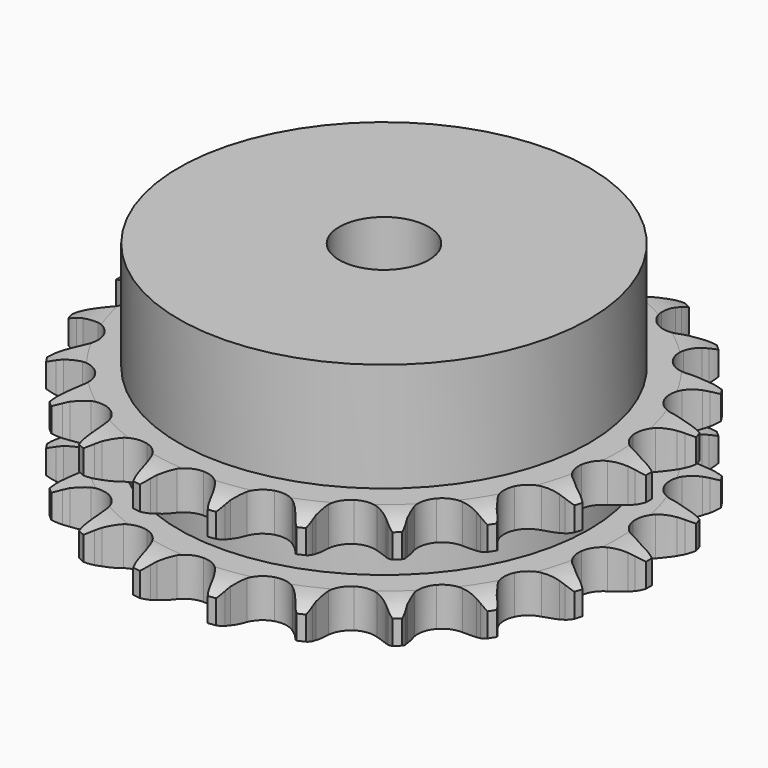
from build123d import *

# Parameters (mm, degrees)
PAD_DEPTH         = 15.4
SKETCH001_R       = 27.5
PAD001_DEPTH      = 30
SKETCH002_R       = 6
POCKET_DEPTH      = 0.001
POCKET_DEPTH_BACK = 30.001


with BuildPart() as part:
    # Sprocket → Pad (new body)
    with BuildSketch(Plane.XY):
        with BuildLine():
            ThreePointArc((-5.166449, 35.933439), (-4.481835, 35.114865), (-3.978369, 34.173972))
            Line((-3.978369, 34.173972), (-3.671108, 33.423774))
            ThreePointArc((-3.671108, 33.423774), (-3.177847, 32.418519), (-2.553901, 31.488714))
            ThreePointArc((-2.553901, 31.488714), (-1.422393, 30.565729), (0, 30.235561))
            ThreePointArc((0, 30.235561), (1.422393, 30.565729), (2.553901, 31.488714))
            ThreePointArc((2.553901, 31.488714), (3.177847, 32.418519), (3.671108, 33.423774))
            Line((3.671108, 33.423774), (3.978369, 34.173972))
            ThreePointArc((3.978369, 34.173972), (4.481835, 35.114865), (5.166449, 35.933439))
            ThreePointArc((5.166449, 35.933439), (5.592711, 34.955145), (5.810703, 33.910522))
            Line((5.810703, 33.910522), (5.894163, 33.104147))
            ThreePointArc((5.894163, 33.104147), (6.08423, 32.000644), (6.420946, 30.932717))
            ThreePointArc((6.420946, 30.932717), (7.246585, 29.728337), (8.518342, 29.010808))
            ThreePointArc((8.518342, 29.010808), (9.976137, 28.926868), (11.321846, 29.493683))
            Line((11.321846, 29.493683), (12.938968, 31.035606))
            ThreePointArc((12.938968, 31.035606), (13.184325, 31.358404), (13.445138, 31.668849))
            ThreePointArc((13.445138, 31.668849), (14.19329, 32.429787), (15.080791, 33.022326))
            ThreePointArc((15.080791, 33.022326), (15.21417, 31.963567), (15.129027, 30.899843))
            Line((15.129027, 30.899843), (14.981924, 30.102619))
            ThreePointArc((14.981924, 30.102619), (14.853399, 28.990267), (14.875606, 27.870735))
            ThreePointArc((14.875606, 27.870735), (15.328488, 26.482531), (16.346578, 25.435772))
            ThreePointArc((16.346578, 25.435772), (17.721674, 24.944524), (19.172562, 25.109249))
            Line((19.172562, 25.109249), (21.158589, 26.133117))
            ThreePointArc((21.158589, 26.133117), (21.484951, 26.373715), (21.822661, 26.598105))
            ThreePointArc((21.822661, 26.598105), (22.754889, 27.117441), (23.773377, 27.43594))
            ThreePointArc((23.773377, 27.43594), (23.603066, 26.382492), (23.221687, 25.385843))
            Line((23.221687, 25.385843), (22.855938, 24.662355))
            ThreePointArc((22.855938, 24.662355), (22.419234, 23.631271), (22.125133, 22.550832))
            ThreePointArc((22.125133, 22.550832), (22.168568, 21.091269), (22.850512, 19.800082))
            ThreePointArc((22.850512, 19.800082), (24.031506, 18.941323), (25.470032, 18.690613))
            Line((25.470032, 18.690613), (27.664067, 19.113479))
            ThreePointArc((27.664067, 19.113479), (28.044993, 19.252384), (28.432242, 19.372541))
            ThreePointArc((28.432242, 19.372541), (29.473022, 19.608201), (30.539986, 19.626857))
            ThreePointArc((30.539986, 19.626857), (30.079783, 18.664063), (29.433064, 17.815233))
            Line((29.433064, 17.815233), (28.878301, 17.224095))
            ThreePointArc((28.878301, 17.224095), (28.168796, 16.357811), (27.582213, 15.403995))
            ThreePointArc((27.582213, 15.403995), (27.212682, 13.991317), (27.503233, 12.560306))
            ThreePointArc((27.503233, 12.560306), (28.394449, 11.403609), (29.704071, 10.757775))
            Line((29.704071, 10.757775), (31.928368, 10.54538))
            ThreePointArc((31.928368, 10.54538), (32.332998, 10.57134), (32.738412, 10.577529))
            ThreePointArc((32.738412, 10.577529), (33.803427, 10.510421), (34.832426, 10.227723))
            ThreePointArc((34.832426, 10.227723), (34.119615, 9.433583), (33.259949, 8.801338))
            Line((33.259949, 8.801338), (32.561115, 8.39044))
            ThreePointArc((32.561115, 8.39044), (31.63629, 7.759137), (30.804747, 7.009217))
            ThreePointArc((30.804747, 7.009217), (30.052187, 5.757872), (29.927806, 4.302969))
            ThreePointArc((29.927806, 4.302969), (30.457042, 2.942042), (31.531663, 1.953406))
            Line((31.531663, 1.953406), (33.606021, 1.122958))
            ThreePointArc((33.606021, 1.122958), (34.001575, 1.033868), (34.392311, 0.925588))
            ThreePointArc((34.392311, 0.925588), (35.395278, 0.56115), (36.302951, 0))
            ThreePointArc((36.302951, 0), (35.395278, -0.56115), (34.392311, -0.925588))
            Line((34.392311, -0.925588), (33.606021, -1.122958))
            ThreePointArc((33.606021, -1.122958), (32.5408, -1.468135), (31.531663, -1.953406))
            ThreePointArc((31.531663, -1.953406), (30.457042, -2.942042), (29.927806, -4.302969))
            ThreePointArc((29.927806, -4.302969), (30.052187, -5.757872), (30.804747, -7.009217))
            Line((30.804747, -7.009217), (32.561115, -8.39044))
            ThreePointArc((32.561115, -8.39044), (32.915546, -8.587361), (33.259949, -8.801338))
            ThreePointArc((33.259949, -8.801338), (34.119615, -9.433583), (34.832426, -10.227723))
            ThreePointArc((34.832426, -10.227723), (33.803427, -10.510421), (32.738412, -10.577529))
            Line((32.738412, -10.577529), (31.928368, -10.54538))
            ThreePointArc((31.928368, -10.54538), (30.809047, -10.576468), (29.704071, -10.757775))
            ThreePointArc((29.704071, -10.757775), (28.394449, -11.403609), (27.503233, -12.560306))
            ThreePointArc((27.503233, -12.560306), (27.212682, -13.991317), (27.582213, -15.403995))
            Line((27.582213, -15.403995), (28.878301, -17.224095))
            ThreePointArc((28.878301, -17.224095), (29.162896, -17.512894), (29.433064, -17.815233))
            ThreePointArc((29.433064, -17.815233), (30.079783, -18.664063), (30.539986, -19.626857))
            ThreePointArc((30.539986, -19.626857), (29.473022, -19.608201), (28.432242, -19.372541))
            Line((28.432242, -19.372541), (27.664067, -19.113479))
            ThreePointArc((27.664067, -19.113479), (26.581329, -18.827958), (25.470032, -18.690613))
            ThreePointArc((25.470032, -18.690613), (24.031506, -18.941323), (22.850512, -19.800082))
            ThreePointArc((22.850512, -19.800082), (22.168568, -21.091269), (22.125133, -22.550832))
            Line((22.125133, -22.550832), (22.855938, -24.662355))
            ThreePointArc((22.855938, -24.662355), (23.047641, -25.019636), (23.221687, -25.385843))
            ThreePointArc((23.221687, -25.385843), (23.603066, -26.382492), (23.773377, -27.43594))
            ThreePointArc((23.773377, -27.43594), (22.754889, -27.117441), (21.822661, -26.598105))
            Line((21.822661, -26.598105), (21.158589, -26.133117))
            ThreePointArc((21.158589, -26.133117), (20.200149, -25.554119), (19.172562, -25.109249))
            ThreePointArc((19.172562, -25.109249), (17.721674, -24.944524), (16.346578, -25.435772))
            ThreePointArc((16.346578, -25.435772), (15.328488, -26.482531), (14.875606, -27.870735))
            Line((14.875606, -27.870735), (14.981924, -30.102619))
            ThreePointArc((14.981924, -30.102619), (15.065204, -30.499436), (15.129027, -30.899843))
            ThreePointArc((15.129027, -30.899843), (15.21417, -31.963567), (15.080791, -33.022326))
            ThreePointArc((15.080791, -33.022326), (14.19329, -32.429787), (13.445138, -31.668849))
            Line((13.445138, -31.668849), (12.938968, -31.035606))
            ThreePointArc((12.938968, -31.035606), (12.182474, -30.210038), (11.321846, -29.493683))
            ThreePointArc((11.321846, -29.493683), (9.976137, -28.926868), (8.518342, -29.010808))
            ThreePointArc((8.518342, -29.010808), (7.246585, -29.728337), (6.420946, -30.932717))
            Line((6.420946, -30.932717), (5.894163, -33.104147))
            ThreePointArc((5.894163, -33.104147), (5.862273, -33.508353), (5.810703, -33.910522))
            ThreePointArc((5.810703, -33.910522), (5.592711, -34.955145), (5.166449, -35.933439))
            ThreePointArc((5.166449, -35.933439), (4.481835, -35.114865), (3.978369, -34.173972))
            Line((3.978369, -34.173972), (3.671108, -33.423774))
            ThreePointArc((3.671108, -33.423774), (3.177847, -32.418519), (2.553901, -31.488714))
            ThreePointArc((2.553901, -31.488714), (1.422393, -30.565729), (0, -30.235561))
            ThreePointArc((0, -30.235561), (-1.422393, -30.565729), (-2.553901, -31.488714))
            Line((-2.553901, -31.488714), (-3.671108, -33.423774))
            ThreePointArc((-3.671108, -33.423774), (-3.815584, -33.802622), (-3.978369, -34.173972))
            ThreePointArc((-3.978369, -34.173972), (-4.481835, -35.114865), (-5.166449, -35.933439))
            ThreePointArc((-5.166449, -35.933439), (-5.592711, -34.955145), (-5.810703, -33.910522))
            Line((-5.810703, -33.910522), (-5.894163, -33.104147))
            ThreePointArc((-5.894163, -33.104147), (-6.08423, -32.000644), (-6.420946, -30.932717))
            ThreePointArc((-6.420946, -30.932717), (-7.246585, -29.728337), (-8.518342, -29.010808))
            ThreePointArc((-8.518342, -29.010808), (-9.976137, -28.926868), (-11.321846, -29.493683))
            Line((-11.321846, -29.493683), (-12.938968, -31.035606))
            ThreePointArc((-12.938968, -31.035606), (-13.184325, -31.358404), (-13.445138, -31.668849))
            ThreePointArc((-13.445138, -31.668849), (-14.19329, -32.429787), (-15.080791, -33.022326))
            ThreePointArc((-15.080791, -33.022326), (-15.21417, -31.963567), (-15.129027, -30.899843))
            Line((-15.129027, -30.899843), (-14.981924, -30.102619))
            ThreePointArc((-14.981924, -30.102619), (-14.853399, -28.990267), (-14.875606, -27.870735))
            ThreePointArc((-14.875606, -27.870735), (-15.328488, -26.482531), (-16.346578, -25.435772))
            ThreePointArc((-16.346578, -25.435772), (-17.721674, -24.944524), (-19.172562, -25.109249))
            Line((-19.172562, -25.109249), (-21.158589, -26.133117))
            ThreePointArc((-21.158589, -26.133117), (-21.484951, -26.373715), (-21.822661, -26.598105))
            ThreePointArc((-21.822661, -26.598105), (-22.754889, -27.117441), (-23.773377, -27.43594))
            ThreePointArc((-23.773377, -27.43594), (-23.603066, -26.382492), (-23.221687, -25.385843))
            Line((-23.221687, -25.385843), (-22.855938, -24.662355))
            ThreePointArc((-22.855938, -24.662355), (-22.419234, -23.631271), (-22.125133, -22.550832))
            ThreePointArc((-22.125133, -22.550832), (-22.168568, -21.091269), (-22.850512, -19.800082))
            ThreePointArc((-22.850512, -19.800082), (-24.031506, -18.941323), (-25.470032, -18.690613))
            Line((-25.470032, -18.690613), (-27.664067, -19.113479))
            ThreePointArc((-27.664067, -19.113479), (-28.044993, -19.252384), (-28.432242, -19.372541))
            ThreePointArc((-28.432242, -19.372541), (-29.473022, -19.608201), (-30.539986, -19.626857))
            ThreePointArc((-30.539986, -19.626857), (-30.079783, -18.664063), (-29.433064, -17.815233))
            Line((-29.433064, -17.815233), (-28.878301, -17.224095))
            ThreePointArc((-28.878301, -17.224095), (-28.168796, -16.357811), (-27.582213, -15.403995))
            ThreePointArc((-27.582213, -15.403995), (-27.212682, -13.991317), (-27.503233, -12.560306))
            ThreePointArc((-27.503233, -12.560306), (-28.394449, -11.403609), (-29.704071, -10.757775))
            Line((-29.704071, -10.757775), (-31.928368, -10.54538))
            ThreePointArc((-31.928368, -10.54538), (-32.332998, -10.57134), (-32.738412, -10.577529))
            ThreePointArc((-32.738412, -10.577529), (-33.803427, -10.510421), (-34.832426, -10.227723))
            ThreePointArc((-34.832426, -10.227723), (-34.119615, -9.433583), (-33.259949, -8.801338))
            Line((-33.259949, -8.801338), (-32.561115, -8.39044))
            ThreePointArc((-32.561115, -8.39044), (-31.63629, -7.759137), (-30.804747, -7.009217))
            ThreePointArc((-30.804747, -7.009217), (-30.052187, -5.757872), (-29.927806, -4.302969))
            ThreePointArc((-29.927806, -4.302969), (-30.457042, -2.942042), (-31.531663, -1.953406))
            Line((-31.531663, -1.953406), (-33.606021, -1.122958))
            ThreePointArc((-33.606021, -1.122958), (-34.001575, -1.033868), (-34.392311, -0.925588))
            ThreePointArc((-34.392311, -0.925588), (-35.395278, -0.56115), (-36.302951, 0))
            ThreePointArc((-36.302951, 0), (-35.395278, 0.56115), (-34.392311, 0.925588))
            Line((-34.392311, 0.925588), (-33.606021, 1.122958))
            ThreePointArc((-33.606021, 1.122958), (-32.5408, 1.468135), (-31.531663, 1.953406))
            ThreePointArc((-31.531663, 1.953406), (-30.457042, 2.942042), (-29.927806, 4.302969))
            ThreePointArc((-29.927806, 4.302969), (-30.052187, 5.757872), (-30.804747, 7.009217))
            Line((-30.804747, 7.009217), (-32.561115, 8.39044))
            ThreePointArc((-32.561115, 8.39044), (-32.915546, 8.587361), (-33.259949, 8.801338))
            ThreePointArc((-33.259949, 8.801338), (-34.119615, 9.433583), (-34.832426, 10.227723))
            ThreePointArc((-34.832426, 10.227723), (-33.803427, 10.510421), (-32.738412, 10.577529))
            Line((-32.738412, 10.577529), (-31.928368, 10.54538))
            ThreePointArc((-31.928368, 10.54538), (-30.809047, 10.576468), (-29.704071, 10.757775))
            ThreePointArc((-29.704071, 10.757775), (-28.394449, 11.403609), (-27.503233, 12.560306))
            ThreePointArc((-27.503233, 12.560306), (-27.212682, 13.991317), (-27.582213, 15.403995))
            Line((-27.582213, 15.403995), (-28.878301, 17.224095))
            ThreePointArc((-28.878301, 17.224095), (-29.162896, 17.512894), (-29.433064, 17.815233))
            ThreePointArc((-29.433064, 17.815233), (-30.079783, 18.664063), (-30.539986, 19.626857))
            ThreePointArc((-30.539986, 19.626857), (-29.473022, 19.608201), (-28.432242, 19.372541))
            Line((-28.432242, 19.372541), (-27.664067, 19.113479))
            ThreePointArc((-27.664067, 19.113479), (-26.581329, 18.827958), (-25.470032, 18.690613))
            ThreePointArc((-25.470032, 18.690613), (-24.031506, 18.941323), (-22.850512, 19.800082))
            ThreePointArc((-22.850512, 19.800082), (-22.168568, 21.091269), (-22.125133, 22.550832))
            Line((-22.125133, 22.550832), (-22.855938, 24.662355))
            ThreePointArc((-22.855938, 24.662355), (-23.047641, 25.019636), (-23.221687, 25.385843))
            ThreePointArc((-23.221687, 25.385843), (-23.603066, 26.382492), (-23.773377, 27.43594))
            ThreePointArc((-23.773377, 27.43594), (-22.754889, 27.117441), (-21.822661, 26.598105))
            Line((-21.822661, 26.598105), (-21.158589, 26.133117))
            ThreePointArc((-21.158589, 26.133117), (-20.200149, 25.554119), (-19.172562, 25.109249))
            ThreePointArc((-19.172562, 25.109249), (-17.721674, 24.944524), (-16.346578, 25.435772))
            ThreePointArc((-16.346578, 25.435772), (-15.328488, 26.482531), (-14.875606, 27.870735))
            Line((-14.875606, 27.870735), (-14.981924, 30.102619))
            ThreePointArc((-14.981924, 30.102619), (-15.065204, 30.499436), (-15.129027, 30.899843))
            ThreePointArc((-15.129027, 30.899843), (-15.21417, 31.963567), (-15.080791, 33.022326))
            ThreePointArc((-15.080791, 33.022326), (-14.19329, 32.429787), (-13.445138, 31.668849))
            Line((-13.445138, 31.668849), (-12.938968, 31.035606))
            ThreePointArc((-12.938968, 31.035606), (-12.182474, 30.210038), (-11.321846, 29.493683))
            ThreePointArc((-11.321846, 29.493683), (-9.976137, 28.926868), (-8.518342, 29.010808))
            ThreePointArc((-8.518342, 29.010808), (-7.246585, 29.728337), (-6.420946, 30.932717))
            Line((-6.420946, 30.932717), (-5.894163, 33.104147))
            ThreePointArc((-5.894163, 33.104147), (-5.862273, 33.508353), (-5.810703, 33.910522))
            ThreePointArc((-5.810703, 33.910522), (-5.592711, 34.955145), (-5.166449, 35.933439))
        make_face()
    extrude(amount=PAD_DEPTH)

    # Sketch → Groove (revolve, cut)
    with BuildSketch(Plane.XZ):
        with BuildLine():
            ThreePointArc((31.141101, 0), (33.377169, 0.253206), (35.5, 1))
            Line((35.5, 1), (35.5, 4.2))
            ThreePointArc((35.5, 4.2), (33.377169, 4.946794), (31.141101, 5.2))
            Line((27.5, 5.2), (31.141101, 5.2))
            Line((27.5, 10.2), (27.5, 5.2))
            Line((31.141101, 10.2), (27.5, 10.2))
            ThreePointArc((31.141101, 10.2), (33.377169, 10.453206), (35.5, 11.2))
            Line((35.5, 11.2), (35.5, 14.4))
            ThreePointArc((35.5, 14.4), (33.377169, 15.146794), (31.141101, 15.4))
            Line((31.141101, 15.4), (41.141101, 15.4))
            Line((41.141101, 15.4), (41.141101, 0))
            Line((31.141101, 0), (41.141101, 0))
        make_face()
    revolve(axis=Axis((0, 0, 0), (0, 0, 1)), mode=Mode.SUBTRACT)

    # Sketch001 → Pad001 (join)
    with BuildSketch(Plane.XY):
        Circle(SKETCH001_R)
    extrude(amount=PAD001_DEPTH)

    # Sketch002 → Pocket (cut, two sides)
    with BuildSketch(Plane.XY) as pocket_sk:
        Circle(SKETCH002_R)
    extrude(amount=-POCKET_DEPTH, mode=Mode.SUBTRACT)
    extrude(pocket_sk.sketch, amount=POCKET_DEPTH_BACK, mode=Mode.SUBTRACT)


solid = part.part
